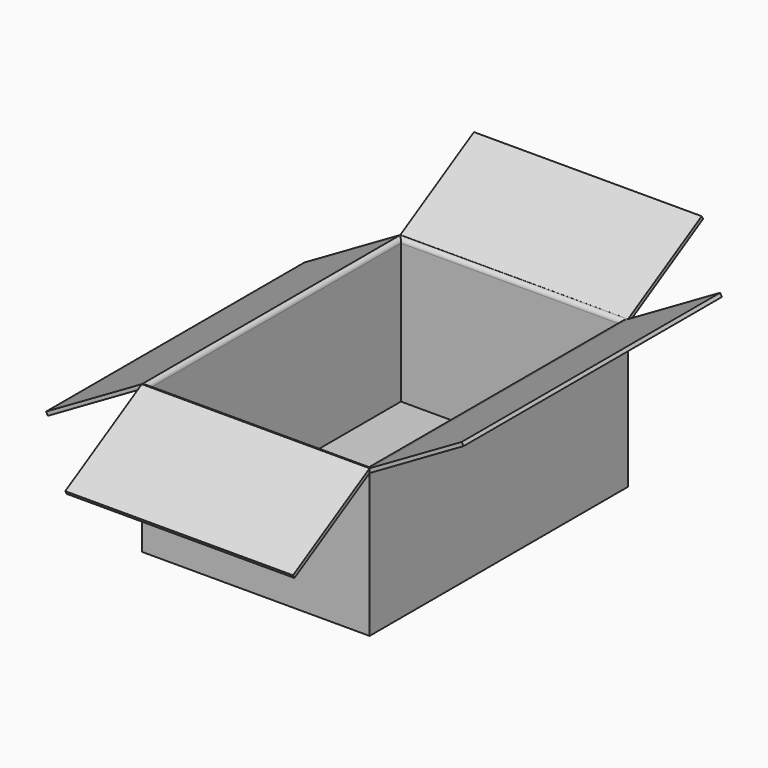
from build123d import *

# Parameters (mm, degrees)
F0_W     = 189
F0_H     = 119
F1_DEPTH = 268
F2_T     = -3
F4_DEPTH = 268
F6_DEPTH = 189


with BuildPart() as f1:
    # F0 (on Front) → F1 (new body)
    with BuildSketch(Plane.XZ):
        with Locations((94.5, 59.5)):
            Rectangle(F0_W, F0_H)
    extrude(amount=F1_DEPTH)

    # F2
    f2_openings = [f1.faces().sort_by_distance(p)[0] for p in [
        (94.5, -134, 119),
    ]]
    offset(amount=F2_T, openings=f2_openings)

    # F3 (on face) → F4 (join, through all)
    with BuildSketch(Plane.XZ.offset(268)):
        with BuildLine():
            Line((-77.942286, 74), (0, 119))
            Line((0, 119), (3.464102, 119))
            ThreePointArc((3.464102, 119), (2.44949, 121.44949), (0, 122.464102))
            Line((0, 122.464102), (-79.442286, 76.598076))
            Line((-79.442286, 76.598076), (-77.942286, 74))
        make_face()
        with BuildLine():
            Line((185.535898, 119), (189, 119))
            Line((189, 119), (266.942286, 164))
            Line((266.942286, 164), (265.442286, 166.598076))
            Line((265.442286, 166.598076), (189, 122.464102))
            ThreePointArc((189, 122.464102), (186.55051, 121.44949), (185.535898, 119))
        make_face()
    extrude(amount=-F4_DEPTH)

    # F5 (on face) → F6 (join, through all)
    with BuildSketch(Plane(origin=(0, 0, 0), x_dir=(0, -1, 0), z_dir=(-1, 0, 0))):
        with BuildLine():
            Line((264.535898, 119), (268, 119))
            Line((268, 119), (345.942286, 74))
            Line((345.942286, 74), (347.442286, 76.598076))
            Line((347.442286, 76.598076), (268, 122.464102))
            ThreePointArc((268, 122.464102), (265.55051, 121.44949), (264.535898, 119))
        make_face()
        with BuildLine():
            Line((-77.942286, 164), (0, 119))
            Line((0, 119), (3.464102, 119))
            ThreePointArc((3.464102, 119), (2.44949, 121.44949), (0, 122.464102))
            Line((0, 122.464102), (-76.442286, 166.598076))
            Line((-76.442286, 166.598076), (-77.942286, 164))
        make_face()
    extrude(amount=-F6_DEPTH)


solid = f1.part
